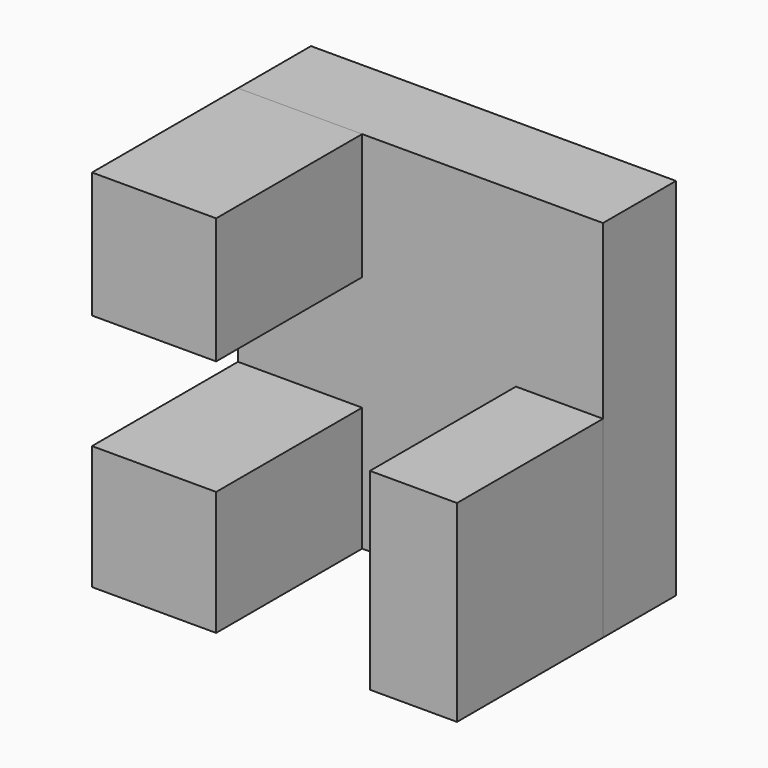
from build123d import *

# Parameters (mm, degrees)
F0_W     = 40
F0_H     = 40
F1_DEPTH = 10
F2_W     = 13.605762
F2_H     = 13.803833
F2_H_2   = 13.605761
F2_W_2   = 9.539339
F2_H_3   = 21.119392
F3_DEPTH = 20


with BuildPart() as f1:
    # F0 (on Front) → F1 (new body)
    with BuildSketch(Plane.XZ):
        with Locations((-8.836092, 22.030711)):
            Rectangle(F0_W, F0_H)
    extrude(amount=F1_DEPTH)

    # F2 (on face) → F3 (join)
    with BuildSketch(Plane.XZ.offset(10)):
        with Locations((-22.033211, 35.128794)):
            Rectangle(F2_W, F2_H)
        with Locations((-22.033211, 8.833591)):
            Rectangle(F2_W, F2_H_2)
        with Locations((6.394238, 12.590407)):
            Rectangle(F2_W_2, F2_H_3)
    extrude(amount=F3_DEPTH)


solid = f1.part
